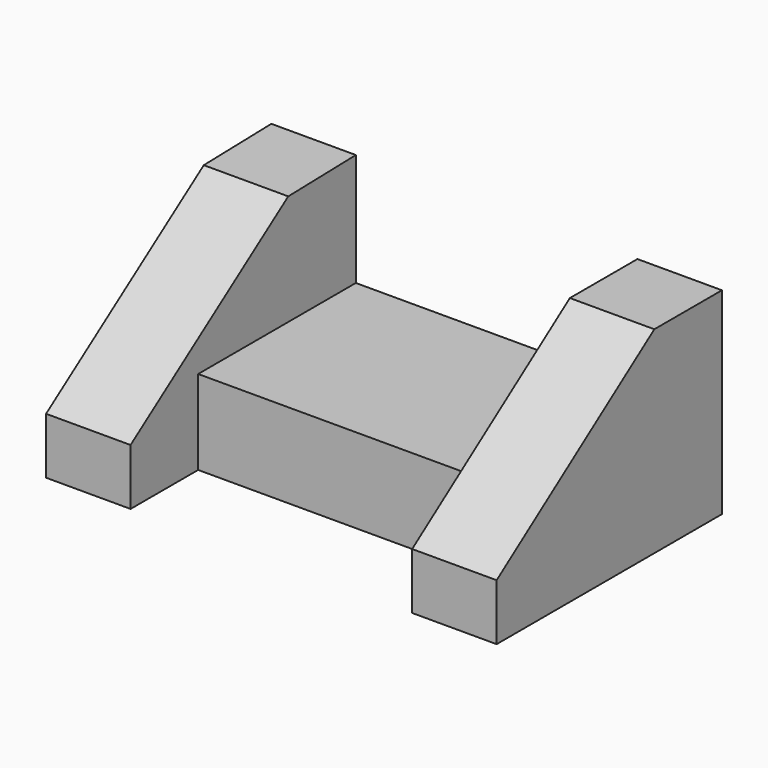
from build123d import *

# Parameters (mm, degrees)
F1_DEPTH = 19.05
F2_W     = 44.45
F2_H     = 19.05
F3_DEPTH = 63.5
F5_DEPTH = 44.45
F7_DEPTH = 25.4


with BuildPart() as f1:
    # F0 (on Right) → F1 (new body)
    with BuildSketch(Plane.YZ):
        Polygon((-44.772066, -13.848902), (-44.772066, -26.548902), (18.727934, -26.548902), (18.727934, 17.901098), (-0.322066, 17.436433), align=None)
    extrude(amount=-F1_DEPTH)

    # F2 (on face) → F3 (join)
    with BuildSketch(Plane.YZ):
        with Locations((-3.497066, -17.023902)):
            Rectangle(F2_W, F2_H)
    extrude(amount=F3_DEPTH)

    # F4 (on face) → F5 (join)
    with BuildSketch(Plane(origin=(0, 0, -26.548902), x_dir=(1, 0, 0), z_dir=(0, 0, -1))):
        Polygon((63.5, 25.722066), (63.5, -18.727934), (82.55, -18.727934), (82.55, 44.772066), (63.5, 44.772066), align=None)
    extrude(amount=-F5_DEPTH)

    # F6 (on face) → F7 (cut)
    with BuildSketch(Plane.YZ.offset(82.55)):
        Polygon((-44.772066, 17.901098), (-44.772066, -13.848902), (-0.322066, 17.901098), align=None)
    extrude(amount=-F7_DEPTH, mode=Mode.SUBTRACT)


solid = f1.part
